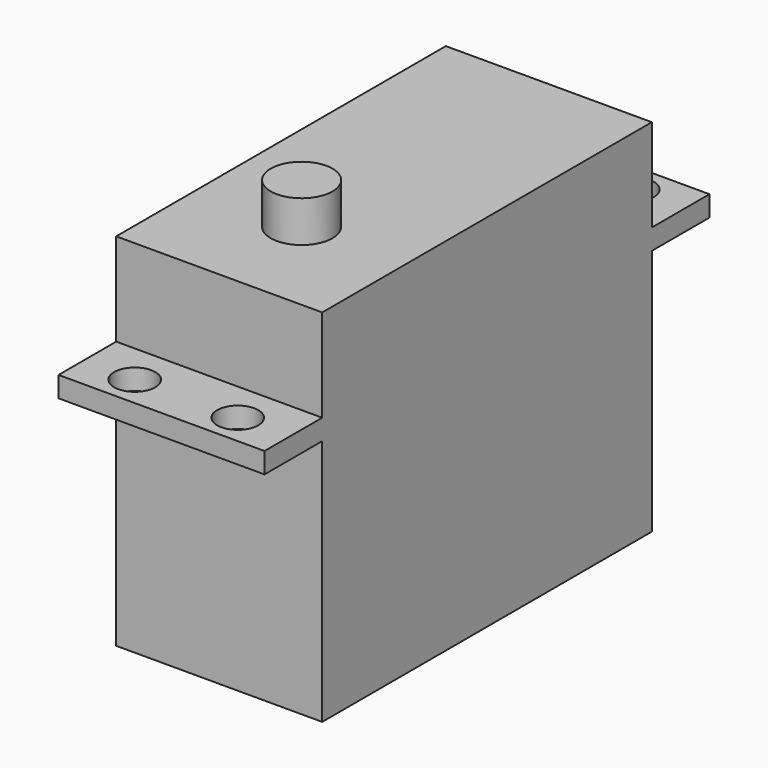
from build123d import *

# Parameters (mm, degrees)
F0_W     = 20
F0_H     = 7
F0_R     = 2
F0_H_2   = 40
F1_DEPTH = 2
F2_DEPTH = 11
F3_DEPTH = 24
F4_R     = 3
F5_DEPTH = 4


with BuildPart() as f1:
    # F0 (on Top) → F1 (new body)
    with BuildSketch(Plane.XY):
        with Locations((10, 50.5)):
            Rectangle(F0_W, F0_H)
        with Locations((5, 51)):
            Circle(F0_R, mode=Mode.SUBTRACT)
        with Locations((15, 51)):
            Circle(F0_R, mode=Mode.SUBTRACT)
        with Locations((10, 27)):
            Rectangle(F0_W, F0_H_2)
        with Locations((10, 3.5)):
            Rectangle(F0_W, F0_H)
        with Locations((5, 3)):
            Circle(F0_R, mode=Mode.SUBTRACT)
        with Locations((15, 3)):
            Circle(F0_R, mode=Mode.SUBTRACT)
    extrude(amount=F1_DEPTH)

    # F0 (on Top) → F2 (join)
    with BuildSketch(Plane.XY):
        with Locations((10, 27)):
            Rectangle(F0_W, F0_H_2)
    extrude(amount=F2_DEPTH)

    # F0 (on Top) → F3 (join)
    with BuildSketch(Plane.XY):
        with Locations((10, 27)):
            Rectangle(F0_W, F0_H_2)
    extrude(amount=-F3_DEPTH)

    # F4 (on face) → F5 (join)
    with BuildSketch(Plane.XY.offset(11)):
        with Locations((10, 17)):
            Circle(F4_R)
    extrude(amount=F5_DEPTH)


solid = f1.part
